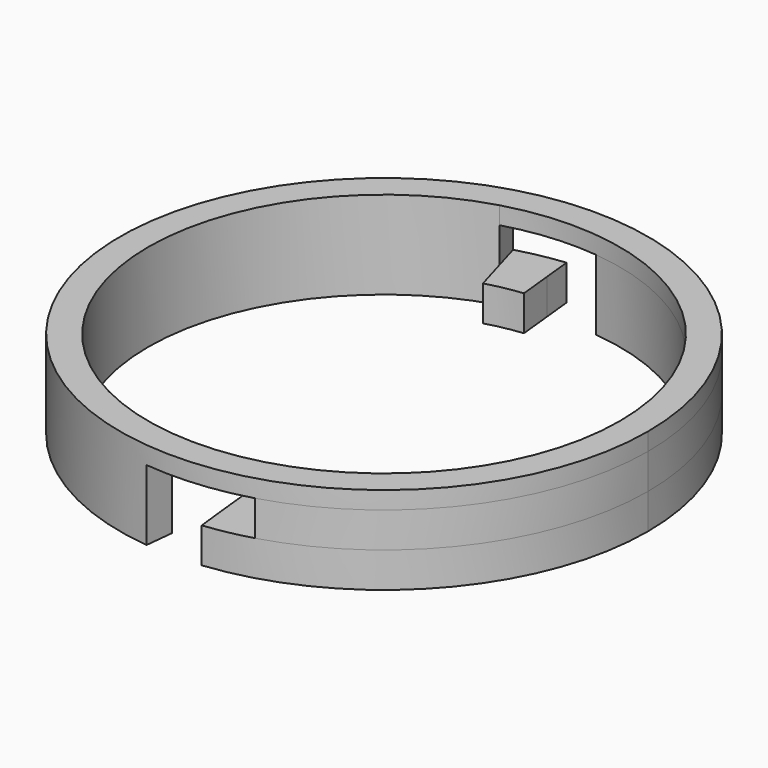
from build123d import *

# Parameters (mm, degrees)
F1_DEPTH = 2
F3_DEPTH = 2
F5_DEPTH = 1


with BuildPart() as f1:
    # F0 (on Top) → F1 (new body)
    with BuildSketch(Plane.XY):
        with BuildLine():
            Line((-1.1952485209, 11.4377174722), (-1.3927243635, 13.3274273154))
            ThreePointArc((-1.3927243635, 13.3274273154), (-2.5775676265, 13.1497583678), (-3.7418055675, 12.8669689941))
            Line((-3.7418055675, 12.8669689941), (-3.2112510467, 11.0425480173))
            ThreePointArc((-3.2112510467, 11.0425480173), (-2.2120916198, 11.2852403902), (-1.1952485209, 11.4377174722))
        make_face()
        with BuildLine():
            Line((-1.3927243635, 13.3274273154), (-1.5590198098, 14.9187619202))
            ThreePointArc((-1.5590198098, 14.9187619202), (-15, 0), (-1.5590198098, -14.9187619202))
            Line((-1.5590198098, -14.9187619202), (-1.3927243635, -13.3274273154))
            ThreePointArc((-1.3927243635, -13.3274273154), (-13.3464395592, -1.1968922642), (-3.7418055675, 12.8669689941))
            ThreePointArc((-3.7418055675, 12.8669689941), (-2.5775676265, 13.1497583678), (-1.3927243635, 13.3274273154))
        make_face()
    extrude(amount=F1_DEPTH)

    # F2 (on face) → F3, piece 2 (join)
    with BuildSketch(Plane.XY.offset(2)):
        with BuildLine():
            ThreePointArc((-4.1885883218, 14.4033235009), (-14.9400442827, -1.3398047734), (-1.5590198098, -14.9187619202))
            Line((-1.5590198098, -14.9187619202), (-1.3927243635, -13.3274273154))
            ThreePointArc((-1.3927243635, -13.3274273154), (-13.3464395592, -1.1968922642), (-3.7418055675, 12.8669689941))
            Line((-3.7418055675, 12.8669689941), (-4.1885883218, 14.4033235009))
        make_face()
    extrude(amount=F3_DEPTH)



with BuildPart() as f1b:
    # F0 (on Top) → F1, piece 2 (new body)
    with BuildSketch(Plane.XY):
        with BuildLine():
            ThreePointArc((1.5731137528, -14.9172823638), (11.1489171289, -10.0350210191), (15, 0))
            ThreePointArc((15, 0), (11.1489171289, 10.0350210191), (1.5731137528, 14.9172823638))
            Line((1.5731137528, 14.9172823638), (1.3927243635, 13.3274273154))
            ThreePointArc((1.3927243635, 13.3274273154), (9.9554634867, 8.9693225366), (13.4, 0))
            ThreePointArc((13.4, 0), (10.7168137663, -8.0442465587), (3.7418055675, -12.8669689941))
            ThreePointArc((3.7418055675, -12.8669689941), (2.5775676265, -13.1497583678), (1.3927243635, -13.3274273154))
            Line((1.3927243635, -13.3274273154), (1.5731137528, -14.9172823638))
        make_face()
        with BuildLine():
            Line((1.1952485209, -11.4377174722), (1.3927243635, -13.3274273154))
            ThreePointArc((1.3927243635, -13.3274273154), (2.5775676265, -13.1497583678), (3.7418055675, -12.8669689941))
            Line((3.7418055675, -12.8669689941), (3.2112510467, -11.0425480173))
            ThreePointArc((3.2112510467, -11.0425480173), (2.2120916198, -11.2852403902), (1.1952485209, -11.4377174722))
        make_face()
    extrude(amount=F1_DEPTH)

    # F2 (on face) → F3 (join)
    with BuildSketch(Plane.XY.offset(2)):
        with BuildLine():
            ThreePointArc((4.1885883218, -14.4033235009), (11.9964333205, -9.0047536105), (15, 0))
            ThreePointArc((15, 0), (11.1441755448, 10.0402864215), (1.5590198098, 14.9187619202))
            Line((1.5590198098, 14.9187619202), (1.3927243635, 13.3274273154))
            ThreePointArc((1.3927243635, 13.3274273154), (9.9554634867, 8.9693225366), (13.4, 0))
            ThreePointArc((13.4, 0), (10.7168137663, -8.0442465587), (3.7418055675, -12.8669689941))
            Line((3.7418055675, -12.8669689941), (4.1885883218, -14.4033235009))
        make_face()
    extrude(amount=F3_DEPTH)


with BuildPart() as f1_1:
    add(f1.part)

    add(f1b.part)  # F5 merges F1b
    # F4 (on face) → F5 (join)
    with BuildSketch(Plane.XY.offset(4)):
        with BuildLine():
            Line((-3.7418055675, 12.8669689941), (-4.1885883218, 14.4033235009))
            ThreePointArc((-4.1885883218, 14.4033235009), (-14.9400442827, -1.3398047734), (-1.5590198098, -14.9187619202))
            Line((-1.5590198098, -14.9187619202), (-1.3927243635, -13.3274273154))
            ThreePointArc((-1.3927243635, -13.3274273154), (-13.3464395592, -1.1968922642), (-3.7418055675, 12.8669689941))
        make_face()
        with BuildLine():
            ThreePointArc((-1.5590198098, -14.9187619202), (10.0402864215, -11.1441755448), (15, 0))
            ThreePointArc((15, 0), (9.0047536105, 11.9964333205), (-4.1885883218, 14.4033235009))
            Line((-4.1885883218, 14.4033235009), (-3.7418055675, 12.8669689941))
            ThreePointArc((-3.7418055675, 12.8669689941), (8.0442465587, 10.7168137663), (13.4, 0))
            ThreePointArc((13.4, 0), (8.9693225366, -9.9554634867), (-1.3927243635, -13.3274273154))
            Line((-1.3927243635, -13.3274273154), (-1.5590198098, -14.9187619202))
        make_face()
    extrude(amount=F5_DEPTH)


solid = f1_1.part
